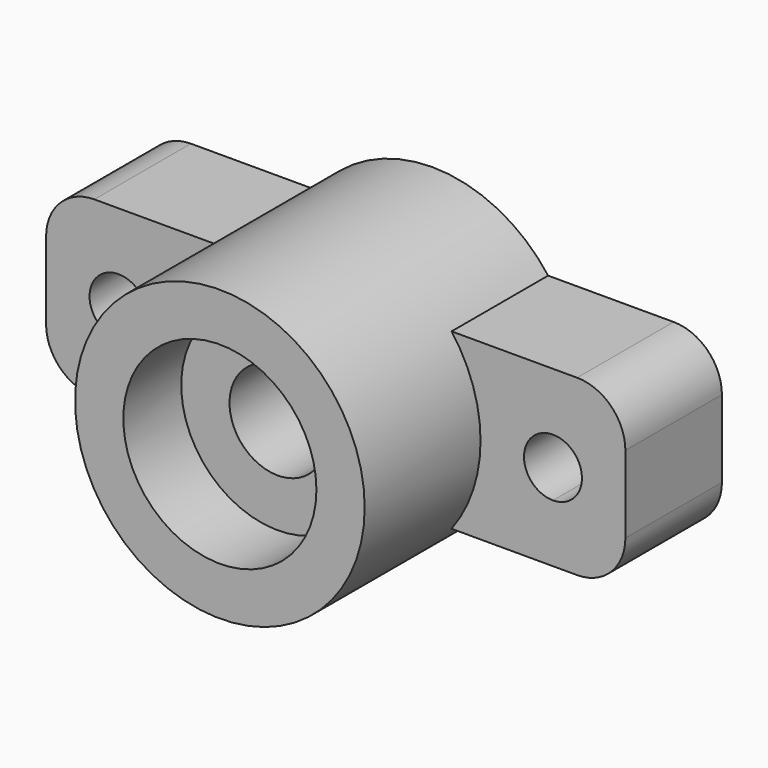
from build123d import *

# Parameters (mm, degrees)
F0_R     = 10
F1_DEPTH = 25
F2_R     = 30
F2_R_2   = 10
F3_DEPTH = 15
F4_R     = 30
F4_R_2   = 20
F5_DEPTH = 15


with BuildPart() as f1:
    # F0 (on Front) → F1 (new body)
    with BuildSketch(Plane.XZ):
        with BuildLine():
            ThreePointArc((24, -18), (28.4604989415, -9.4868329805), (30, 0))
            ThreePointArc((30, 0), (28.4604989415, 9.4868329805), (24, 18))
            Line((24, 18), (-24, 18))
            ThreePointArc((-24, 18), (-30, 0), (-24, -18))
            Line((-24, -18), (24, -18))
        make_face()
        Circle(F0_R, mode=Mode.SUBTRACT)
        with BuildLine():
            ThreePointArc((24, 18), (28.4604989415, 9.4868329805), (30, 0))
            ThreePointArc((30, 0), (28.4604989415, -9.4868329805), (24, -18))
            Line((24, -18), (45, -18))
            Line((45, -18), (50, -18))
            ThreePointArc((50, -18), (57.0710678119, -15.0710678119), (60, -8))
            Line((60, -8), (60, 8))
            ThreePointArc((60, 8), (57.0710678119, 15.0710678119), (50, 18))
            Line((50, 18), (24, 18))
        make_face()
        with BuildLine():
            ThreePointArc((51, 0), (49.2426406871, -4.2426406871), (45, -6))
            ThreePointArc((45, -6), (40.7573593129, 4.2426406871), (51, 0))
        make_face(mode=Mode.SUBTRACT)
        with BuildLine():
            Line((-24, 18), (24, 18))
            ThreePointArc((24, 18), (0, 30), (-24, 18))
        make_face()
        with BuildLine():
            ThreePointArc((-24, -18), (0, -30), (24, -18))
            Line((24, -18), (-24, -18))
        make_face()
        with BuildLine():
            ThreePointArc((-24, -18), (-30, 0), (-24, 18))
            Line((-24, 18), (-50, 18))
            ThreePointArc((-50, 18), (-57.0710678119, 15.0710678119), (-60, 8))
            Line((-60, 8), (-60, -8))
            ThreePointArc((-60, -8), (-57.0710678119, -15.0710678119), (-50, -18))
            Line((-50, -18), (-45, -18))
            Line((-45, -18), (-24, -18))
        make_face()
        with BuildLine():
            ThreePointArc((-39, 0), (-40.7573593129, -4.2426406871), (-45, -6))
            ThreePointArc((-45, -6), (-49.2426406871, 4.2426406871), (-39, 0))
        make_face(mode=Mode.SUBTRACT)
    extrude(amount=F1_DEPTH)

    # F2 (on face) → F3 (join)
    with BuildSketch(Plane.XZ.offset(25)):
        Circle(F2_R)
        Circle(F2_R_2, mode=Mode.SUBTRACT)
    extrude(amount=F3_DEPTH)

    # F4 (on face) → F5 (join)
    with BuildSketch(Plane.XZ.offset(40)):
        Circle(F4_R)
        Circle(F4_R_2, mode=Mode.SUBTRACT)
    extrude(amount=F5_DEPTH)


solid = f1.part
